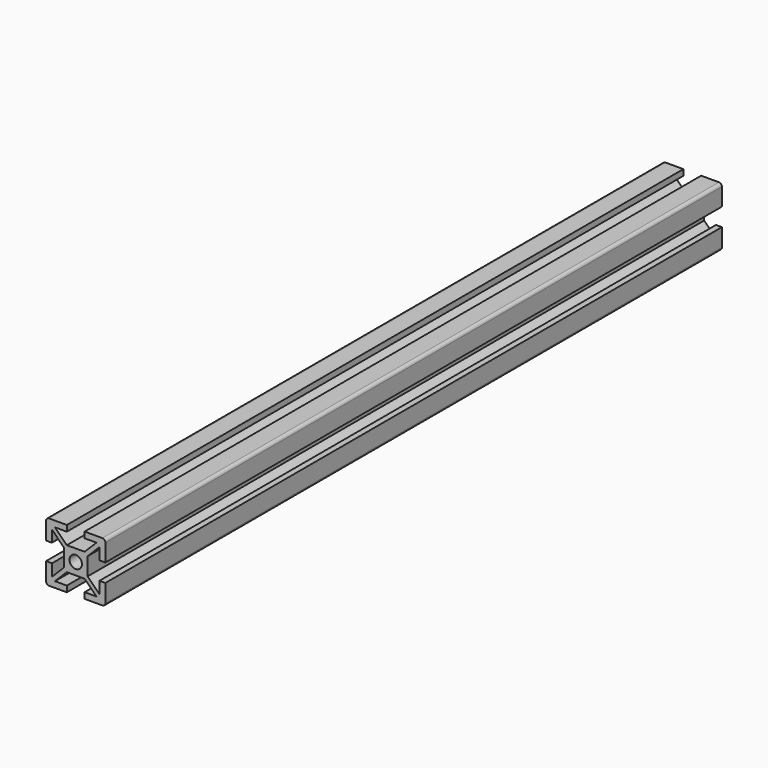
from build123d import *

# Parameters (mm, degrees)
F0_R     = 2.1
F2_DEPTH = 260


with BuildPart() as f2:
    # F0 (on Front) → F2 (new body)
    with BuildSketch(Plane.XZ):
        with BuildLine():
            ThreePointArc((-10, -9), (-9.7071067812, -9.7071067812), (-9, -10))
            Line((-9, -10), (-3, -10))
            Line((-3, -10), (-3, -8))
            Line((-3, -8), (-7, -8))
            Line((-7, -8), (-3, -4))
            Line((-3, -4), (3, -4))
            Line((3, -4), (7, -8))
            Line((7, -8), (3, -8))
            Line((3, -8), (3, -10))
            Line((3, -10), (9, -10))
            ThreePointArc((9, -10), (9.7071067812, -9.7071067812), (10, -9))
            Line((10, -9), (10, -3))
            Line((10, -3), (8, -3))
            Line((8, -3), (8, -7))
            Line((8, -7), (4, -3))
            Line((4, -3), (4, 3))
            Line((4, 3), (8, 7))
            Line((8, 7), (8, 3.0783633339))
            Line((8, 3.0783633339), (10, 3.0783633339))
            Line((10, 3.0783633339), (10, 9))
            ThreePointArc((10, 9), (9.7071067812, 9.7071067812), (9, 10))
            Line((9, 10), (3, 10))
            Line((3, 10), (3, 8))
            Line((3, 8), (7, 8))
            Line((7, 8), (3, 4))
            Line((3, 4), (-3, 4))
            Line((-3, 4), (-7, 8))
            Line((-7, 8), (-3, 8))
            Line((-3, 8), (-3, 10))
            Line((-3, 10), (-9, 10))
            ThreePointArc((-9, 10), (-9.7071067812, 9.7071067812), (-10, 9))
            Line((-10, 9), (-10, 3.0783633339))
            Line((-10, 3.0783633339), (-8.1, 3.0783633339))
            ThreePointArc((-8.1, 3.0783633339), (-8.0292893219, 3.1076526558), (-8, 3.1783633339))
            Line((-8, 3.1783633339), (-8, 7))
            Line((-8, 7), (-4, 3))
            Line((-4, 3), (-4, -3))
            Line((-4, -3), (-8, -7))
            Line((-8, -7), (-8, -3))
            Line((-8, -3), (-10, -3))
            Line((-10, -3), (-10, -9))
        make_face()
        Circle(F0_R, mode=Mode.SUBTRACT)
    extrude(amount=F2_DEPTH)


solid = f2.part
